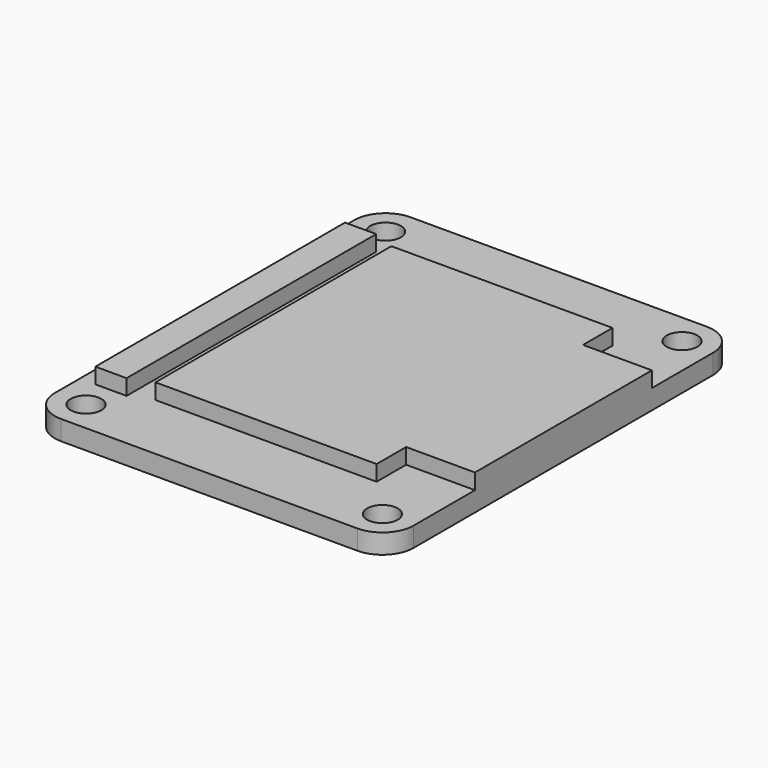
from build123d import *

# Parameters (mm, degrees)
F0_R     = 1.25
F1_DEPTH = 1.6
F2_W     = 2.54
F2_H     = 25.4
F3_DEPTH = 1.27
F4_W     = 5.605
F4_H     = 18
F5_DEPTH = 1.27


with BuildPart() as f1:
    # F0 (on Top) → F1 (new body)
    with BuildSketch(Plane.XY):
        with BuildLine():
            Line((12.065, 17.78), (-12.065, 17.78))
            ThreePointArc((-12.065, 17.78), (-13.861051, 17.036051), (-14.605, 15.24))
            Line((-14.605, 15.24), (-14.605, -15.24))
            ThreePointArc((-14.605, -15.24), (-13.861051, -17.036051), (-12.065, -17.78))
            Line((-12.065, -17.78), (12.065, -17.78))
            ThreePointArc((12.065, -17.78), (13.861051, -17.036051), (14.605, -15.24))
            Line((14.605, -15.24), (14.605, 15.24))
            ThreePointArc((14.605, 15.24), (13.861051, 17.036051), (12.065, 17.78))
        make_face()
        with Locations((-12.065, -15.24)):
            Circle(F0_R, mode=Mode.SUBTRACT)
        with Locations((12.065, -15.24)):
            Circle(F0_R, mode=Mode.SUBTRACT)
        with Locations((-12.065, 15.24)):
            Circle(F0_R, mode=Mode.SUBTRACT)
        with Locations((12.065, 15.24)):
            Circle(F0_R, mode=Mode.SUBTRACT)
    extrude(amount=-F1_DEPTH)

    # F2 (on Top) → F3 (join)
    with BuildSketch(Plane.XY):
        with Locations((-12.065, 0)):
            Rectangle(F2_W, F2_H)
    extrude(amount=F3_DEPTH)

    # F4 (on face) → F5 (join)
    with BuildSketch(Plane.XY):
        Polygon((-9, -12), (9, -12), (9, -9), (9, 9), (9, 12), (-9, 12), align=None)
        with Locations((11.8025, 0)):
            Rectangle(F4_W, F4_H)
    extrude(amount=F5_DEPTH)


solid = f1.part
